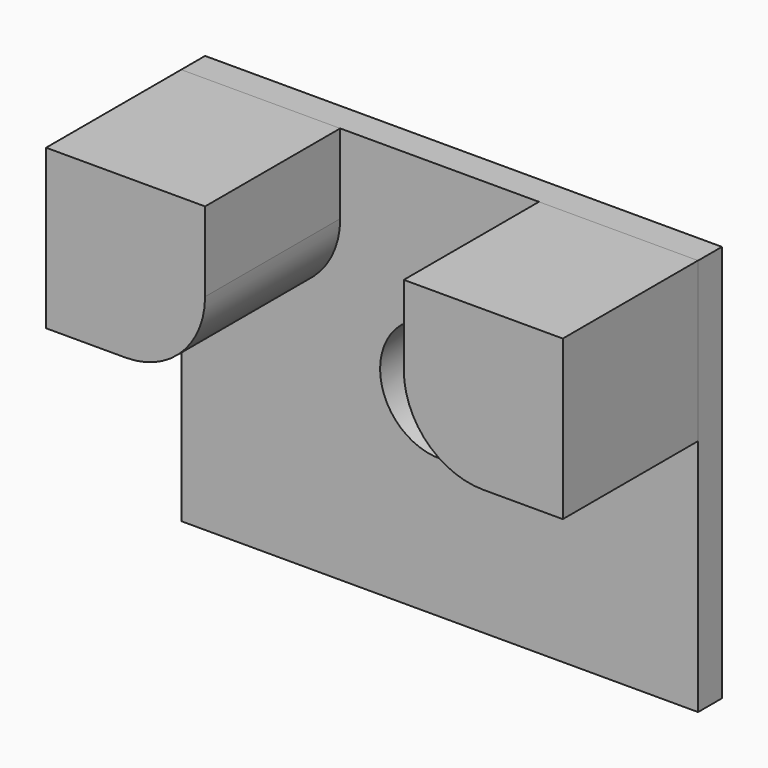
from build123d import *

# Parameters (mm, degrees)
F0_W     = 165.1
F0_H     = 127
F1_DEPTH = 9.525
F2_D     = 38.1
F3_W     = 50.8
F3_H     = 50.8
F4_DEPTH = 63.5
F5_R     = 25.4


with BuildPart() as f1:
    # F0 (on Front) → F1 (new body)
    with BuildSketch(Plane.XZ):
        Rectangle(F0_W, F0_H)
    extrude(amount=F1_DEPTH)

    # F2 (through all)
    with Locations(Plane(origin=(0, 0, 0), x_dir=(1, 0, 0), z_dir=(0, 1, 0))):
        with Locations((0, 0)):
            Hole(F2_D / 2)

    # F3 (on Front) → F4 (join)
    with BuildSketch(Plane.XZ):
        with Locations((-57.190858, 38.099989)):
            Rectangle(F3_W, F3_H)
        with Locations((57.109142, 38.099989)):
            Rectangle(F3_W, F3_H)
    extrude(amount=F4_DEPTH)

    # F5
    f5_edges = [f1.edges().sort_by_distance(p)[0] for p in [
        (-31.790858, -36.5125, 12.699989),
        (31.709142, -36.5125, 12.699989),
    ]]
    fillet(f5_edges, radius=F5_R)


solid = f1.part
